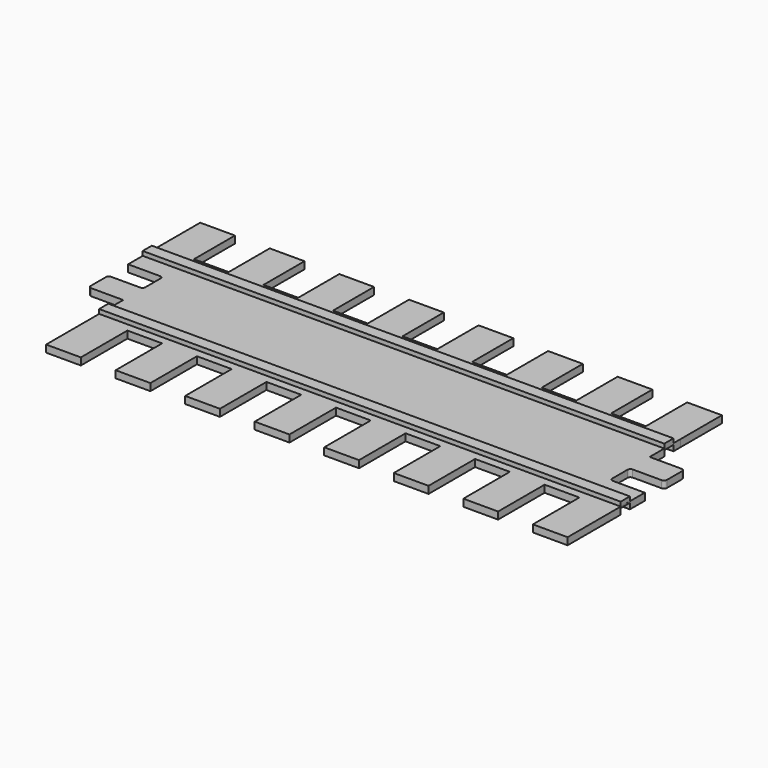
from build123d import *

# Parameters (mm, degrees)
F2_DEPTH = 31.75
F1_W     = 2314.8620128632
F1_H     = 50.8
F1_W_2   = 2314.7030770779
F3_DEPTH = 50.8
F5_DEPTH = 25.4


with BuildPart() as f2:
    # F0 (on Top) → F2 (new body)
    with BuildSketch(Plane.XY):
        with BuildLine():
            Line((141.605, 0), (0, 0))
            Line((0, 0), (-0.0174862289, 172.1356511116))
            Line((-0.0174862289, 172.1356511116), (-0.0174862289, 400.9649455547))
            Line((-0.0174862289, 400.9649455547), (-154.3224862289, 400.9649455547))
            Line((-154.3224862289, 400.9649455547), (-154.3224862289, 172.1356511116))
            Line((-154.3224862289, 172.1356511116), (-308.6274862289, 172.1356511116))
            Line((-308.6274862289, 172.1356511116), (-308.6274862289, 400.9649455547))
            Line((-308.6274862289, 400.9649455547), (-462.9324862289, 400.9649455547))
            Line((-462.9324862289, 400.9649455547), (-462.9324862289, 172.1356511116))
            Line((-462.9324862289, 172.1356511116), (-617.2374862289, 172.1356511116))
            Line((-617.2374862289, 172.1356511116), (-617.2374862289, 400.9649455547))
            Line((-617.2374862289, 400.9649455547), (-771.5424862289, 400.9649455547))
            Line((-771.5424862289, 400.9649455547), (-771.5424862289, 172.1356511116))
            Line((-771.5424862289, 172.1356511116), (-925.8474862289, 172.1356511116))
            Line((-925.8474862289, 172.1356511116), (-925.8474862289, 400.9649455547))
            Line((-925.8474862289, 400.9649455547), (-1080.1524862289, 400.9649455547))
            Line((-1080.1524862289, 400.9649455547), (-1080.1524862289, 172.1356511116))
            Line((-1080.1524862289, 172.1356511116), (-1234.4574862289, 172.1356511116))
            Line((-1234.4574862289, 172.1356511116), (-1234.4574862289, 400.9649455547))
            Line((-1234.4574862289, 400.9649455547), (-1388.7624862289, 400.9649455547))
            Line((-1388.7624862289, 400.9649455547), (-1388.7624862289, 172.1356511116))
            Line((-1388.7624862289, 172.1356511116), (-1543.0674862289, 172.1356511116))
            Line((-1543.0674862289, 172.1356511116), (-1543.0674862289, 399.8836874962))
            Line((-1543.0674862289, 399.8836874962), (-1697.3724862289, 399.8836874962))
            Line((-1697.3724862289, 399.8836874962), (-1697.3724862289, 172.1356511116))
            Line((-1697.3724862289, 172.1356511116), (-1851.6774862289, 172.1356511116))
            Line((-1851.6774862289, 172.1356511116), (-1851.6774862289, 399.8836874962))
            Line((-1851.6774862289, 399.8836874962), (-2005.9824862289, 399.8836874962))
            Line((-2005.9824862289, 399.8836874962), (-2005.9824862289, 172.1356511116))
            Line((-2005.9824862289, 172.1356511116), (-2160.2874862289, 172.1356511116))
            Line((-2160.2874862289, 172.1356511116), (-2160.2874862289, 399.8836874962))
            Line((-2160.2874862289, 399.8836874962), (-2314.5924862289, 399.8836874962))
            Line((-2314.5924862289, 399.8836874962), (-2314.5924862289, 0))
            Line((-2314.5924862289, 0), (-2172.9874862289, 0))
            ThreePointArc((-2172.9874862289, 0), (-2164.0072301079, -3.7197438789), (-2160.2874862289, -12.7))
            Line((-2160.2874862289, -12.7), (-2160.2874862289, -97.307886156))
            ThreePointArc((-2160.2874862289, -97.307886156), (-2164.0072301079, -106.2881422771), (-2172.9874862289, -110.007886156))
            Line((-2172.9874862289, -110.007886156), (-2301.8924862289, -110.007886156))
            ThreePointArc((-2301.8924862289, -110.007886156), (-2310.87274235, -113.7276300349), (-2314.5924862289, -122.707886156))
            Line((-2314.5924862289, -122.707886156), (-2314.5924862289, -207.315286156))
            ThreePointArc((-2314.5924862289, -207.315286156), (-2310.87274235, -216.2955422771), (-2301.8924862289, -220.015286156))
            Line((-2301.8924862289, -220.015286156), (-2160.2874862289, -220.015286156))
            Line((-2160.2874862289, -220.015286156), (-2160.2874862289, -647.8700637817))
            Line((-2160.2874862289, -647.8700637817), (-2005.9736835098, -647.8700637817))
            Line((-2005.9736835098, -647.8700637817), (-2005.9736835098, -389.8174464703))
            Line((-2005.9736835098, -389.8174464703), (-1851.6686835098, -389.8174464703))
            Line((-1851.6686835098, -389.8174464703), (-1851.6686835098, -647.8700637817))
            Line((-1851.6686835098, -647.8700637817), (-1697.355, -647.8700637817))
            Line((-1697.355, -647.8700637817), (-1697.355, -389.8174464703))
            Line((-1697.355, -389.8174464703), (-1543.05, -389.8174464703))
            Line((-1543.05, -389.8174464703), (-1543.05, -647.8700637817))
            Line((-1543.05, -647.8700637817), (-1388.745, -647.8700637817))
            Line((-1388.745, -647.8700637817), (-1388.745, -389.8174464703))
            Line((-1388.745, -389.8174464703), (-1234.44, -389.8174464703))
            Line((-1234.44, -389.8174464703), (-1234.44, -647.8700637817))
            Line((-1234.44, -647.8700637817), (-1080.135, -647.8700637817))
            Line((-1080.135, -647.8700637817), (-1080.135, -389.8174464703))
            Line((-1080.135, -389.8174464703), (-925.83, -389.8174464703))
            Line((-925.83, -389.8174464703), (-925.83, -647.8700637817))
            Line((-925.83, -647.8700637817), (-771.525, -647.8700637817))
            Line((-771.525, -647.8700637817), (-771.525, -389.8174464703))
            Line((-771.525, -389.8174464703), (-617.22, -389.8174464703))
            Line((-617.22, -389.8174464703), (-617.22, -647.8700637817))
            Line((-617.22, -647.8700637817), (-462.915, -647.8700637817))
            Line((-462.915, -647.8700637817), (-462.915, -389.8174464703))
            Line((-462.915, -389.8174464703), (-308.61, -389.8174464703))
            Line((-308.61, -389.8174464703), (-308.61, -647.8700637817))
            Line((-308.61, -647.8700637817), (-154.305, -647.8700637817))
            Line((-154.305, -647.8700637817), (-154.305, -389.8174464703))
            Line((-154.305, -389.8174464703), (0, -389.8174464703))
            Line((0, -389.8174464703), (0, -647.8700637817))
            Line((0, -647.8700637817), (154.305, -647.8700637817))
            Line((154.305, -647.8700637817), (154.305, -220.015286156))
            Line((154.305, -220.015286156), (12.7, -220.015286156))
            ThreePointArc((12.7, -220.015286156), (3.7197438789, -216.2955422771), (0, -207.315286156))
            Line((0, -207.315286156), (0, -122.707886156))
            ThreePointArc((0, -122.707886156), (3.7197438789, -113.7276300349), (12.7, -110.007886156))
            Line((12.7, -110.007886156), (141.605, -110.007886156))
            ThreePointArc((141.605, -110.007886156), (150.5852561211, -106.2881422771), (154.305, -97.307886156))
            Line((154.305, -97.307886156), (154.305, -12.7))
            ThreePointArc((154.305, -12.7), (150.5852561211, -3.7197438789), (141.605, 0))
        make_face()
    extrude(amount=F2_DEPTH)

    # F1 (on face) → F3 (join)
    with BuildSketch(Plane.XY):
        with Locations((-1157.4310064316, 106.5107680202)):
            Rectangle(F1_W, F1_H)
        with Locations((-1003.2348185778, -327.8856937885)):
            Rectangle(F1_W_2, F1_H)
    extrude(amount=F3_DEPTH)

    # F4 (on face) → F5 (cut)
    with BuildSketch(Plane(origin=(0, 0, 0), x_dir=(1, 0, 0), z_dir=(0, 0, -1))):
        Polygon((-2314.8620128632, -131.9107680202), (-2314.5924862289, -131.9107680202), (-0.0134000242, -131.9107680202), (0, -131.9107680202), (0, -81.1107680202), (-0.0082395567, -81.1107680202), (-2314.5924862289, -81.1107680202), (-2314.8620128632, -81.1107680202), align=None)
        Polygon((-2160.5863571167, 302.4856937885), (-2160.2874862289, 302.4856937885), (154.305, 302.4856937885), (154.305, 353.2856937885), (-2160.2874862289, 353.2856937885), (-2160.5863571167, 353.2856937885), align=None)
    extrude(amount=-F5_DEPTH, mode=Mode.SUBTRACT)


solid = f2.part
